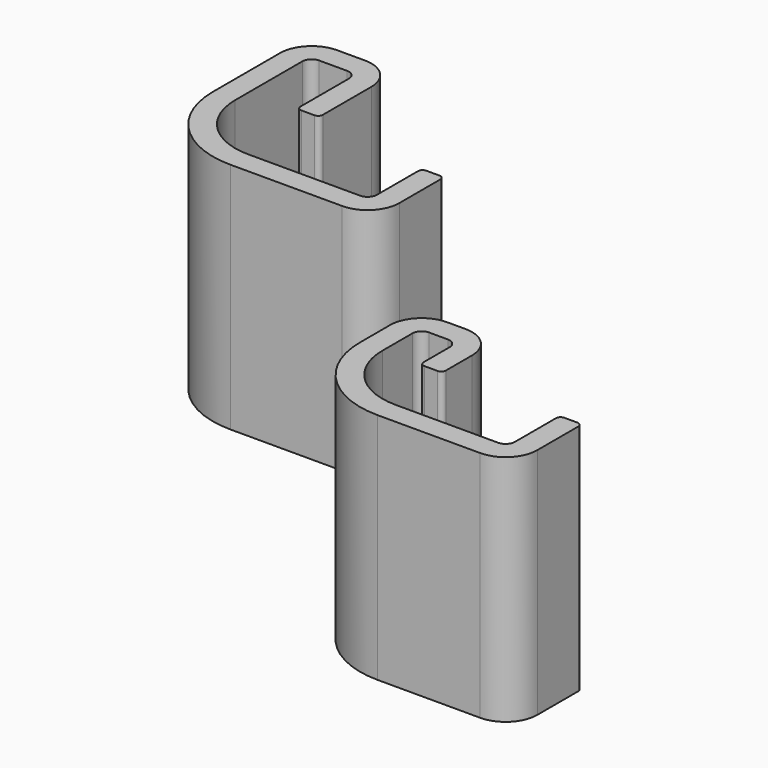
from build123d import *

# Parameters (mm, degrees)
F2_DEPTH = 25


with BuildPart() as f2:
    # F0 (on Top) + F1 (on Top) → F2 (new body)
    with BuildSketch(Plane.XY):
        with BuildLine():
            ThreePointArc((0.5, 0), (0.146447, -0.146447), (0, -0.5))
            Line((0, -0.5), (0, -6))
            ThreePointArc((0, -6), (-0.292893, -6.707107), (-1, -7))
            Line((-1, -7), (-12, -7))
            ThreePointArc((-12, -7), (-16.949747, -4.949747), (-19, 0))
            Line((-19, 0), (-19, 4))
            ThreePointArc((-19, 4), (-18.707107, 4.707107), (-18, 5))
            Line((-18, 5), (-16, 5))
            ThreePointArc((-16, 5), (-15.292893, 4.707107), (-15, 4))
            Line((-15, 4), (-15, 0.5))
            ThreePointArc((-15, 0.5), (-14.853553, 0.146447), (-14.5, 0))
            Line((-14.5, 0), (-13.1, 0))
            ThreePointArc((-13.1, 0), (-12.746447, 0.146447), (-12.6, 0.5))
            Line((-12.6, 0.5), (-12.6, 4))
            ThreePointArc((-12.6, 4), (-13.595837, 6.404163), (-16, 7.4))
            Line((-16, 7.4), (-18, 7.4))
            ThreePointArc((-18, 7.4), (-20.404163, 6.404163), (-21.4, 4))
            Line((-21.4, 4), (-21.4, 0))
            ThreePointArc((-21.4, 0), (-18.646804, -6.646804), (-12, -9.4))
            Line((-12, -9.4), (-1, -9.4))
            ThreePointArc((-1, -9.4), (1.404163, -8.404163), (2.4, -6))
            Line((2.4, -6), (2.4, -0.5))
            ThreePointArc((2.4, -0.5), (2.253553, -0.146447), (1.9, 0))
            Line((1.9, 0), (0.5, 0))
        make_face()
    with BuildSketch(Plane.XY):
        with BuildLine():
            ThreePointArc((-36.517058, 27.770684), (-36.870612, 27.624237), (-37.017058, 27.270684))
            Line((-37.017058, 27.270684), (-37.017058, 21.770684))
            ThreePointArc((-37.017058, 21.770684), (-37.309951, 21.063577), (-38.017058, 20.770684))
            Line((-38.017058, 20.770684), (-50.017058, 20.770684))
            ThreePointArc((-50.017058, 20.770684), (-54.966806, 22.820937), (-57.017058, 27.770684))
            Line((-57.017058, 27.770684), (-57.017058, 36.770684))
            ThreePointArc((-57.017058, 36.770684), (-56.724165, 37.477791), (-56.017058, 37.770684))
            Line((-56.017058, 37.770684), (-53.017058, 37.770684))
            ThreePointArc((-53.017058, 37.770684), (-52.309951, 37.477791), (-52.017058, 36.770684))
            Line((-52.017058, 36.770684), (-52.017058, 30.270684))
            ThreePointArc((-52.017058, 30.270684), (-51.870612, 29.917131), (-51.517058, 29.770684))
            Line((-51.517058, 29.770684), (-50.117058, 29.770684))
            ThreePointArc((-50.117058, 29.770684), (-49.763505, 29.917131), (-49.617058, 30.270684))
            Line((-49.617058, 30.270684), (-49.617058, 36.770684))
            ThreePointArc((-49.617058, 36.770684), (-50.612895, 39.174847), (-53.017058, 40.170684))
            Line((-53.017058, 40.170684), (-56.017058, 40.170684))
            ThreePointArc((-56.017058, 40.170684), (-58.421221, 39.174847), (-59.417058, 36.770684))
            Line((-59.417058, 36.770684), (-59.417058, 27.770684))
            ThreePointArc((-59.417058, 27.770684), (-56.663862, 21.12388), (-50.017058, 18.370684))
            Line((-50.017058, 18.370684), (-38.017058, 18.370684))
            ThreePointArc((-38.017058, 18.370684), (-35.612895, 19.366521), (-34.617058, 21.770684))
            Line((-34.617058, 21.770684), (-34.617058, 27.270684))
            ThreePointArc((-34.617058, 27.270684), (-34.763505, 27.624237), (-35.117058, 27.770684))
            Line((-35.117058, 27.770684), (-36.517058, 27.770684))
        make_face()
    extrude(amount=F2_DEPTH)


solid = f2.part
